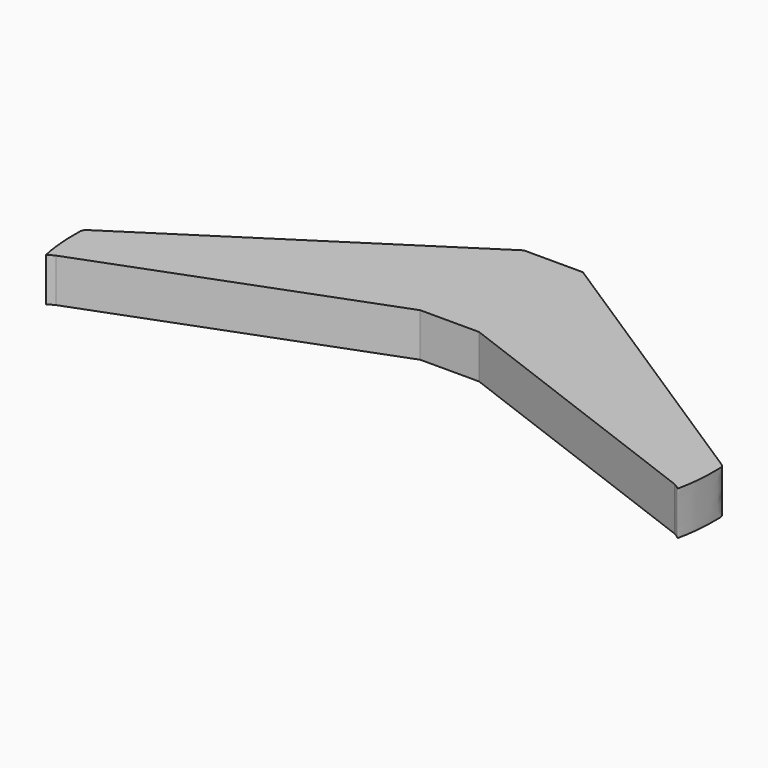
from build123d import *

# Parameters (mm, degrees)
F0_W     = 0.0010915717
F0_H     = 5.660045338
F0_W_2   = 1.2897493593
F1_DEPTH = 1.905


with BuildPart() as f1:
    # F0 (on Top) → F1 (new body)
    with BuildSketch(Plane.XY):
        with Locations((1.5453260451, -5.3574324561)):
            Rectangle(F0_W, F0_H)
        with BuildLine():
            Line((14.059772715, -10.627791335), (1.545871831, -2.5274097871))
            Line((1.545871831, -2.5274097871), (1.545871831, -8.1874551252))
            Line((1.545871831, -8.1874551252), (1.5447802593, -8.1874551252))
            Line((1.5447802593, -8.1874551252), (1.5447802593, -8.189640226))
            Line((1.5447802593, -8.189640226), (13.7663893402, -12.798666954))
            add(Edge.make_bspline(
                [(14.059772715, -10.627791335), (14.1143877666, -10.6658963869), (14.2486354086, -10.7544680195), (14.2470916444, -11.0876132879), (14.2523583296, -11.5190311068), (14.188827241, -12.1702512382), (14.1855257406, -12.2669298232), (14.0521519569, -13.1769351266), (14.0221137553, -12.9131311551), (13.7663893402, -12.798666954)],
                knots=[0, 0, 0, 0, 0.1060367648, 0.233551073, 0.3965507113, 0.578761442, 0.6723212135, 0.8639264865, 1, 1, 1, 1], degree=3))
        make_face()
        with Locations((0.8999055797, -5.3574324561)):
            Rectangle(F0_W_2, F0_H)
        with Locations((-0.3898437796, -5.3574324561)):
            Rectangle(F0_W_2, F0_H)
        with BuildLine():
            Line((-1.0347184593, -8.1874551252), (-1.0347184593, -2.5274097871))
            Line((-1.0347184593, -2.5274097871), (-1.035810031, -2.5274097871))
            Line((-1.035810031, -2.5274097871), (-13.549710915, -10.627791335))
            add(Edge.make_bspline(
                [(-13.549710915, -10.627791335), (-13.6043259666, -10.6658963869), (-13.7385736086, -10.7544680195), (-13.7370298444, -11.0876132879), (-13.7422965295, -11.5190311068), (-13.678765441, -12.1702512382), (-13.6754639406, -12.2669298232), (-13.5420901569, -13.1769351266), (-13.5120519553, -12.9131311551), (-13.2563275401, -12.798666954)],
                knots=[0, 0, 0, 0, 0.1060367648, 0.233551073, 0.3965507113, 0.578761442, 0.6723212135, 0.8639264865, 1, 1, 1, 1], degree=3))
            Line((-13.2563275401, -12.798666954), (-1.0347184593, -8.189640226))
            Line((-1.0347184593, -8.189640226), (-1.0347184593, -8.1874551252))
        make_face()
    extrude(amount=F1_DEPTH)


solid = f1.part
